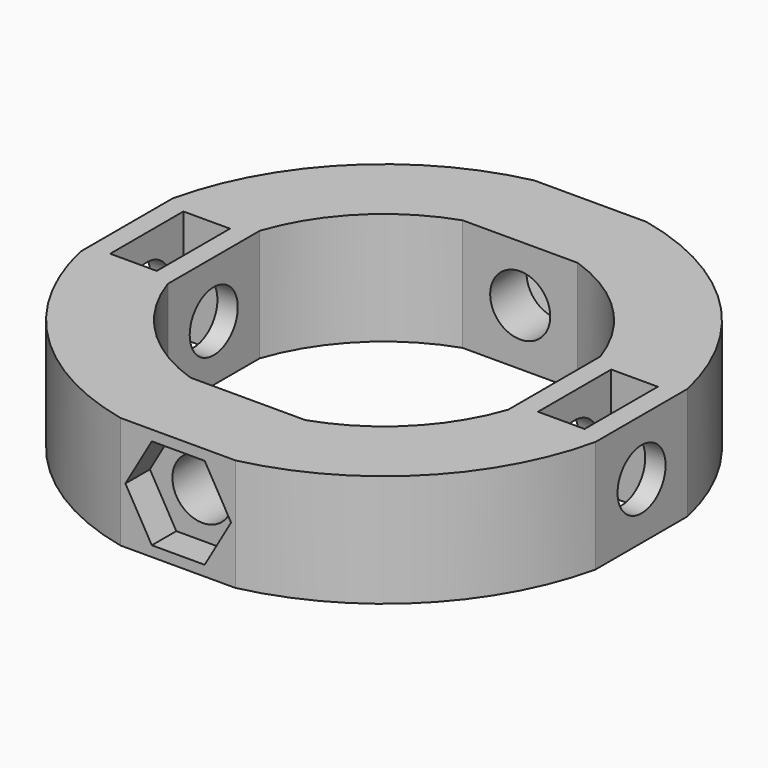
from build123d import *

# Parameters (mm, degrees)
PAD_DEPTH             = 10
SKETCH001_R           = 2.675
POCKET_DEPTH          = 7.776573
POCKET001_DEPTH       = 3.75
SKETCH003_W           = 4.15
SKETCH003_H           = 8.15
POCKET002_DEPTH       = 10
POLARPATTERN_COUNT    = 2
POLARPATTERN003_COUNT = 4
POCKET011_DEPTH       = 3.75


with BuildPart() as part:
    # Sketch → Pad (new body)
    with BuildSketch(Plane.XY):
        with BuildLine():
            Line((-22.935879, -5.118149), (-22.935879, 5.118149))
            ThreePointArc((-5, 22.961925), (-16.57418, 16.659729), (-22.935879, 5.118149))
            Line((-5, 22.961925), (5, 22.961925))
            ThreePointArc((22.935879, 5.118149), (16.57418, 16.659729), (5, 22.961925))
            Line((22.935879, 5.118149), (22.935879, -5.118149))
            ThreePointArc((5.118149, -22.935879), (16.617009, -16.617009), (22.935879, -5.118149))
            Line((-5.118149, -22.935879), (5.118149, -22.935879))
            ThreePointArc((-22.935879, -5.118149), (-16.617009, -16.617009), (-5.118149, -22.935879))
        make_face()
        with BuildLine():
            Line((-15.159306, 5.118149), (-15.159306, -5.118149))
            ThreePointArc((-15.159306, -5.118149), (-11.313708, -11.313708), (-5.118149, -15.159306))
            Line((-5.118149, -15.159306), (5.118149, -15.159306))
            ThreePointArc((5.118149, -15.159306), (11.313708, -11.313708), (15.159306, -5.118149))
            Line((15.159306, 5.118149), (15.159306, -5.118149))
            ThreePointArc((15.159306, 5.118149), (11.313708, 11.313708), (5.118149, 15.159306))
            Line((-5.118149, 15.159306), (5.118149, 15.159306))
            ThreePointArc((-5.118149, 15.159306), (-11.313708, 11.313708), (-15.159306, 5.118149))
        make_face(mode=Mode.SUBTRACT)
    extrude(amount=PAD_DEPTH)

    # Sketch001 (on Face7 of Pad) → Pocket (cut)
    with BuildSketch(Plane.XZ.offset(22.935879)):
        with Locations((0, 5)):
            Circle(SKETCH001_R)
    pocket = extrude(amount=-POCKET_DEPTH, mode=Mode.SUBTRACT)

    # Sketch002 → Pocket001 (cut)
    with BuildSketch(Plane.XZ.offset(23.958595)):
        Polygon((2.380832, 9.076277), (-2.324572, 9.076277), (-4.677275, 5.001277), (-2.324572, 0.926277), (2.380832, 0.926277), (4.733535, 5.001277), align=None)
    pocket001 = extrude(amount=-POCKET001_DEPTH, mode=Mode.SUBTRACT)

    # Sketch003 → Pocket002 (cut)
    with BuildSketch(Plane(origin=(0, 0, 0), x_dir=(1, 0, 0), z_dir=(0, 0, -1))):
        with Locations((-19.047593, 0)):
            Rectangle(SKETCH003_W, SKETCH003_H)
        with Locations((19.047593, 0)):
            Rectangle(SKETCH003_W, SKETCH003_H)
    extrude(amount=-POCKET002_DEPTH, mode=Mode.SUBTRACT)

    # PolarPattern: Pocket001 ×2 about axis
    polarpattern_axis = Axis((0, 0, 0), (0, 0, 1))
    for i in range(1, POLARPATTERN_COUNT):
        add(pocket001.rotate(polarpattern_axis, i * 360 / POLARPATTERN_COUNT), mode=Mode.SUBTRACT)

    # PolarPattern003: Pocket ×4 about axis
    polarpattern003_axis = Axis((0, 0, 0), (0, 0, 1))
    for i in range(1, POLARPATTERN003_COUNT):
        add(pocket.rotate(polarpattern003_axis, i * 360 / POLARPATTERN003_COUNT), mode=Mode.SUBTRACT)

    # Sketch014 (on Face8 of PolarPattern003) → Pocket011 (cut)
    with BuildSketch(Plane(origin=(0, 22.961925, 0), x_dir=(-1, 0, 0), z_dir=(0, 1, 0))):
        Polygon((4.705405, 5), (2.352702, 9.075), (-2.352702, 9.075), (-4.705405, 5), (-2.352702, 0.925), (2.352702, 0.925), align=None)
    extrude(amount=-POCKET011_DEPTH, mode=Mode.SUBTRACT)


solid = part.part
